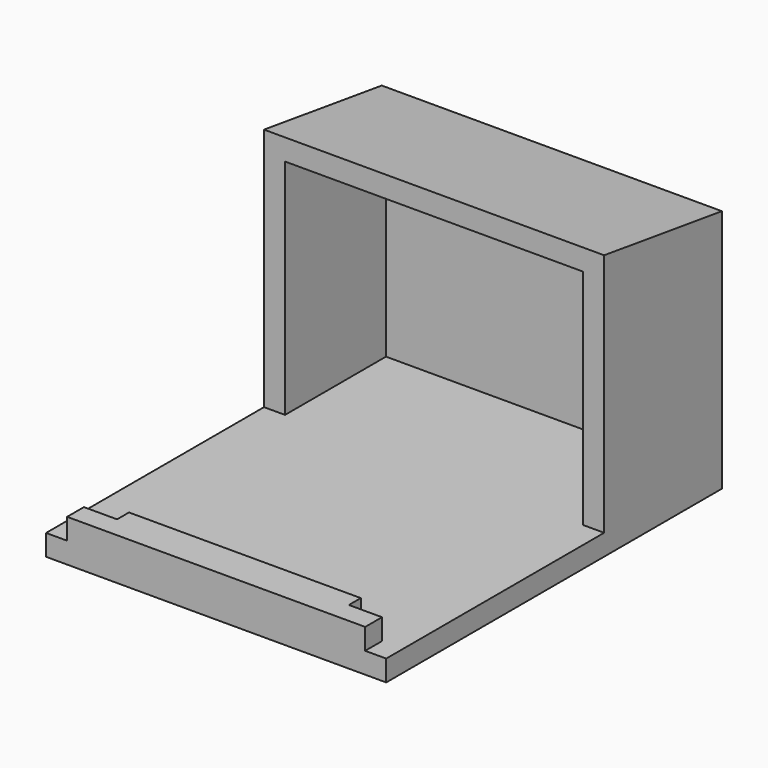
from build123d import *

# Parameters (mm, degrees)
F0_W      = 51.35
F0_H      = 63.35
F1_DEPTH  = 3.175
F3_DEPTH  = 30.5
F5_DEPTH  = 3.175
F7_DEPTH  = 3.175
F9_DEPTH  = 45
F11_DEPTH = 3.175


with BuildPart() as f1:
    # F0 (on Top) → F1 (new body)
    with BuildSketch(Plane.XY):
        with Locations((22.5, -28.5)):
            Rectangle(F0_W, F0_H)
        Polygon((0, -57), (0, 0), (22.5, 0), (45, 0), (45, -57), (40, -57), (40, -54.75), (22.5, -54.75), (5, -54.75), (5, -57), align=None, mode=Mode.SUBTRACT)
        Polygon((22.5, 0), (0, 0), (0, -57), (5, -57), (5, -54.75), (22.5, -54.75), align=None)
        Polygon((45, 0), (22.5, 0), (22.5, -54.75), (40, -54.75), (40, -57), (45, -57), align=None)
    extrude(amount=F1_DEPTH)

    # F2 (on face) → F3 (join)
    with BuildSketch(Plane.XY.offset(3.175)):
        Polygon((0, -19.05), (0, 0), (22.5, 0), (45, 0), (45, -19.05), (48.175, -19.05), (48.175, 3.175), (-3.175, 3.175), (-3.175, -19.05), align=None)
    extrude(amount=F3_DEPTH)

    # F4 (on face) → F5 (join, through all)
    with BuildSketch(Plane.YZ.offset(48.175)):
        Polygon((-19.05, 36.85), (-19.05, 33.675), (3.175, 33.675), align=None)
        Polygon((-19.05, 40.057234329), (-19.05, 36.85), (3.175, 33.675), (3.175, 36.882234329), align=None)
    extrude(amount=-F5_DEPTH)

    # F6 (on face) → F7 (join, through all)
    with BuildSketch(Plane(origin=(-3.175, 0, 0), x_dir=(0, -1, 0), z_dir=(-1, 0, 0))):
        Polygon((-3.175, 33.675), (19.05, 36.85), (19.05, 40.057234329), (-3.175, 36.882234329), align=None)
        Polygon((-3.175, 33.675), (19.05, 33.675), (19.05, 36.85), align=None)
    extrude(amount=-F7_DEPTH)

    # F8 (on face) → F9 (join, through all)
    with BuildSketch(Plane.YZ):
        Polygon((-19.05, 40.057234329), (-19.05, 36.85), (0, 34.1285714286), (0, 33.675), (3.175, 33.675), (3.175, 36.882234329), align=None)
    extrude(amount=F9_DEPTH)

    # F10 (on face) → F11 (join)
    with BuildSketch(Plane.XY.offset(3.175)):
        Polygon((40, -54.75), (22.5, -54.75), (5, -54.75), (5, -57), (0, -57), (0, -60.175), (45, -60.175), (45, -57), (40, -57), align=None)
    extrude(amount=F11_DEPTH)


solid = f1.part
